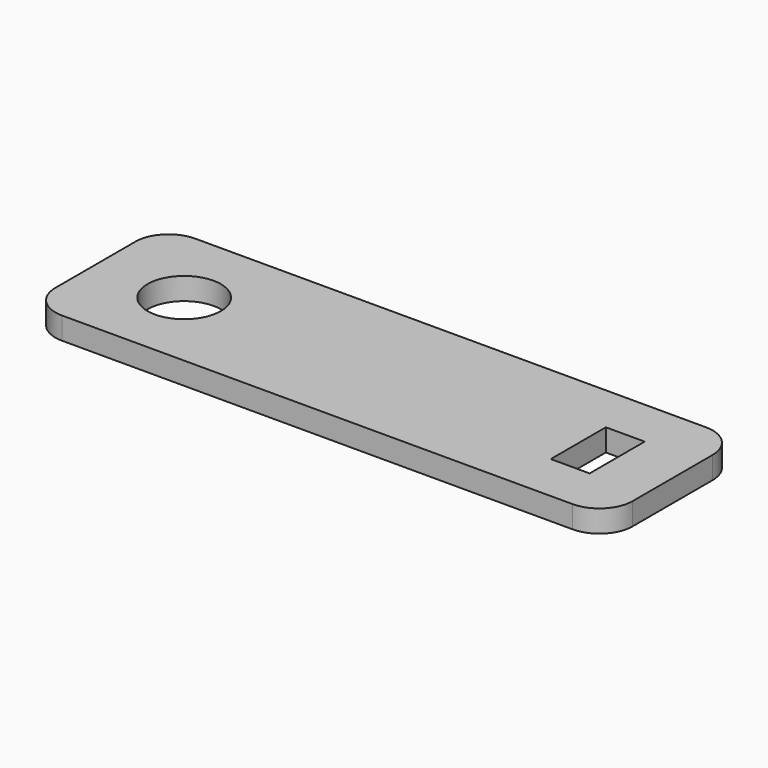
from build123d import *

# Parameters (mm, degrees)
SKETCH_W   = 52
SKETCH_H   = 15
SKETCH_R   = 3.3
SKETCH_W_2 = 3.5
SKETCH_H_2 = 6.2
PAD_DEPTH  = 2
FILLET_R   = 3


with BuildPart() as part:
    # Sketch → Pad (new body)
    with BuildSketch(Plane.XY):
        Rectangle(SKETCH_W, SKETCH_H)
        with Locations((-18, 0)):
            Circle(SKETCH_R, mode=Mode.SUBTRACT)
        with Locations((19.25, 0)):
            Rectangle(SKETCH_W_2, SKETCH_H_2, mode=Mode.SUBTRACT)
    extrude(amount=PAD_DEPTH)

    # Fillet
    fillet_edges = [part.edges().sort_by_distance(p)[0] for p in [
        (26, -7.5, 1),
        (26, 7.5, 1),
        (-26, 7.5, 1),
        (-26, -7.5, 1),
    ]]
    fillet(fillet_edges, radius=FILLET_R)


solid = part.part
